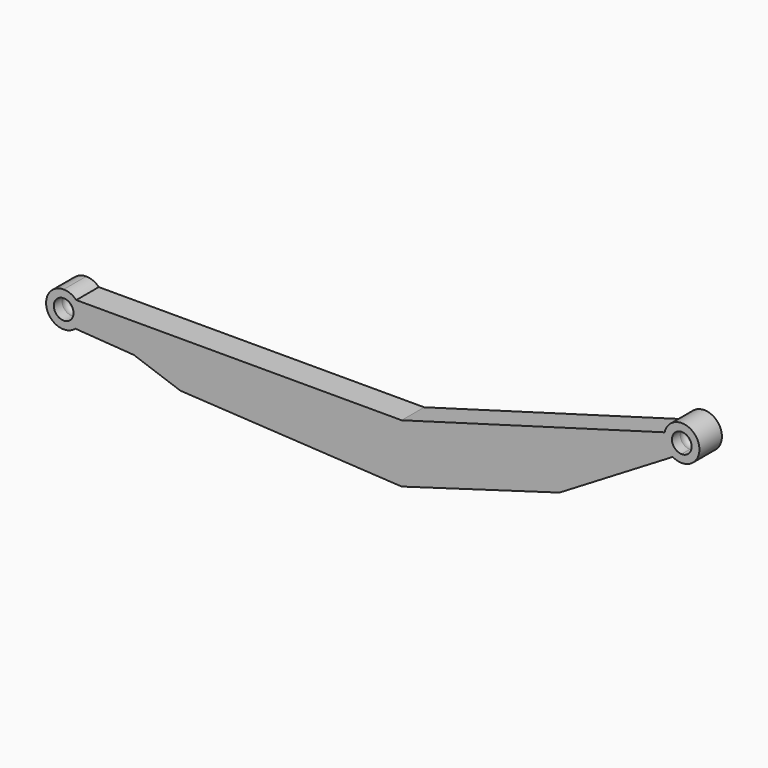
from build123d import *

# Parameters (mm, degrees)
F1_DEPTH = 25.4


with BuildPart() as f1:
    # F0 (on Front) → F1 (new body)
    with BuildSketch(Plane.XZ):
        with BuildLine():
            ThreePointArc((75.5846782372, 0), (74.4064598557, 6.0016860181), (71.0466958676, 11.1125))
            Line((71.0466958676, 11.1125), (59.7096782372, 11.1125))
            Line((59.7096782372, 11.1125), (59.7096782372, 8.89))
            ThreePointArc((59.7096782372, 8.89), (65.995857522, 6.2861792847), (68.5996782372, 0))
            ThreePointArc((68.5996782372, 0), (65.995857522, -6.2861792847), (59.7096782372, -8.89))
            Line((59.7096782372, -8.89), (59.7096782372, -11.1125))
            Line((59.7096782372, -11.1125), (70.2693648091, -11.8536342319))
            ThreePointArc((70.2693648091, -11.8536342319), (74.195026858, -6.4954060948), (75.5846782372, 0))
        make_face()
        with BuildLine():
            ThreePointArc((71.0466958676, 11.1125), (65.8580392994, 14.636026826), (59.7096782372, 15.875))
            Line((59.7096782372, 15.875), (59.7096782372, 11.1125))
            Line((59.7096782372, 11.1125), (71.0466958676, 11.1125))
        make_face()
        with BuildLine():
            Line((59.7096782372, 11.1125), (59.7096782372, 15.875))
            ThreePointArc((59.7096782372, 15.875), (43.8346782372, 0), (59.7096782372, -15.875))
            Line((59.7096782372, -15.875), (59.7096782372, -11.1125))
            Line((59.7096782372, -11.1125), (59.7096782372, -8.89))
            ThreePointArc((59.7096782372, -8.89), (50.8196782372, 0), (59.7096782372, 8.89))
            Line((59.7096782372, 8.89), (59.7096782372, 11.1125))
        make_face()
        with BuildLine():
            Line((59.7096782372, -11.1125), (59.7096782372, -15.875))
            ThreePointArc((59.7096782372, -15.875), (65.3594207786, -14.8356339337), (70.2693648091, -11.8536342319))
            Line((70.2693648091, -11.8536342319), (59.7096782372, -11.1125))
        make_face()
        with BuildLine():
            Line((364.5096782372, 11.1125), (71.0466958676, 11.1125))
            ThreePointArc((71.0466958676, 11.1125), (74.4064598557, 6.0016860181), (75.5846782372, 0))
            ThreePointArc((75.5846782372, 0), (74.195026858, -6.4954060948), (70.2693648091, -11.8536342319))
            Line((70.2693648091, -11.8536342319), (123.0538541683, -15.5583267636))
            Line((123.0538541683, -15.5583267636), (164.9836269965, -30.31287354))
            Line((164.9836269965, -30.31287354), (364.5096782372, -41.5203937454))
            Line((364.5096782372, -41.5203937454), (364.5096782372, 11.1125))
        make_face()
        with BuildLine():
            Line((528.8047229938, 57.9100469965), (364.5096782372, 11.1125))
            Line((364.5096782372, 11.1125), (364.5096782372, -41.5203937454))
            Line((364.5096782372, -41.5203937454), (506.9307684898, 0))
            Line((506.9307684898, 0), (609.0909272925, 61.5520499979))
            ThreePointArc((609.0909272925, 61.5520499979), (602.6243965326, 68.918336487), (601.716619668, 78.6781591222))
            Line((601.716619668, 78.6781591222), (528.8047229938, 57.9100469965))
        make_face()
        with BuildLine():
            Line((610.6760785802, 81.2301575719), (601.716619668, 78.6781591222))
            ThreePointArc((601.716619668, 78.6781591222), (602.6243965326, 68.918336487), (609.0909272925, 61.5520499979))
            Line((609.0909272925, 61.5520499979), (616.9867526025, 66.3093275899))
            ThreePointArc((616.9867526025, 66.3093275899), (609.017363859, 71.7336687669), (610.6760785802, 81.2301575719))
        make_face()
        with BuildLine():
            ThreePointArc((633.0801535113, 75.196644454), (618.956602945, 90.9747321037), (601.716619668, 78.6781591222))
            Line((601.716619668, 78.6781591222), (610.6760785802, 81.2301575719))
            ThreePointArc((610.6760785802, 81.2301575719), (620.4446460535, 83.4753996786), (626.0951535113, 75.196644454))
            ThreePointArc((626.0951535113, 75.196644454), (623.4136362535, 68.8337172943), (616.9867526025, 66.3093275899))
            Line((616.9867526025, 66.3093275899), (609.0909272925, 61.5520499979))
            ThreePointArc((609.0909272925, 61.5520499979), (625.0537930041, 61.3975690099), (633.0801535113, 75.196644454))
        make_face()
    extrude(amount=F1_DEPTH)

    # F3 (on offset) → F4 (revolve, cut)
    with BuildSketch(Plane.XZ.offset(12.7)):
        with BuildLine():
            Line((59.7096782372, 0), (59.7096782372, -9.525))
            ThreePointArc((59.7096782372, -9.525), (69.2346782372, 0), (59.7096782372, 9.525))
            Line((59.7096782372, 9.525), (59.7096782372, 0))
        make_face()
    revolve(axis=Axis((59.7096782372, -12.7, 0), (0, 0, -1)), mode=Mode.SUBTRACT)

    # F3 (on offset) → F5 (revolve, cut)
    with BuildSketch(Plane.XZ.offset(12.7)):
        with BuildLine():
            Line((617.2051535113, 75.196644454), (617.2051535113, 65.671644454))
            ThreePointArc((617.2051535113, 65.671644454), (626.7301535113, 75.196644454), (617.2051535113, 84.721644454))
            Line((617.2051535113, 84.721644454), (617.2051535113, 75.196644454))
        make_face()
    revolve(axis=Axis((617.2051535113, -12.7, 75.196644454), (0, 0, -1)), mode=Mode.SUBTRACT)


solid = f1.part
